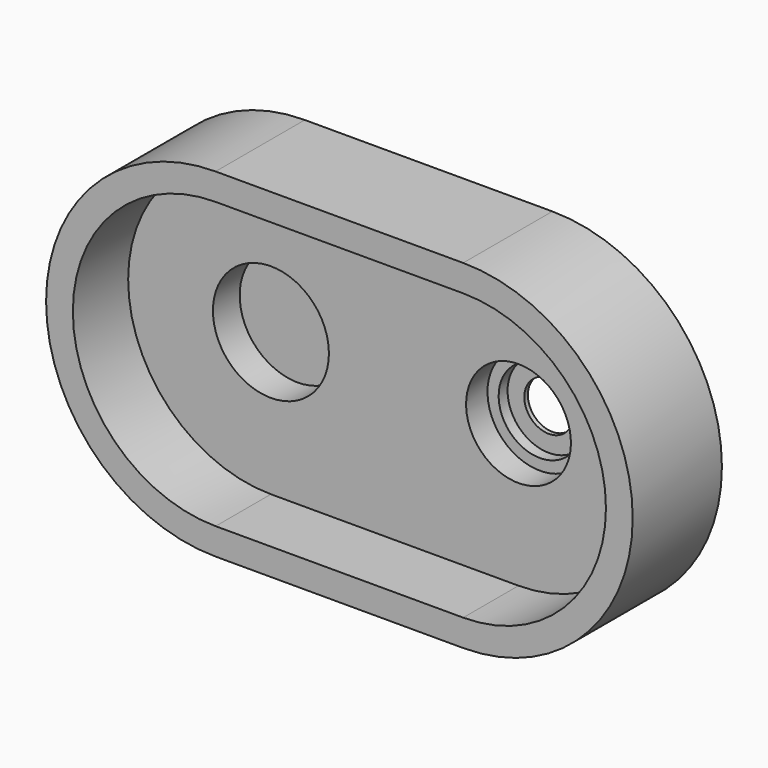
from build123d import *

# Parameters (mm, degrees)
F2_DEPTH = 50
F3_R     = 26
F4_DEPTH = 100
F5_DEPTH = 46


with BuildPart() as f2:
    # F0 (on Front) → F2 (new body)
    with BuildSketch(Plane.XZ):
        with BuildLine():
            Line((111, 76), (0, 76))
            ThreePointArc((0, 76), (-76, 0), (0, -76))
            Line((0, -76), (111, -76))
            ThreePointArc((111, -76), (187, 0), (111, 76))
        make_face()
    extrude(amount=F2_DEPTH)

    # F3 (on offset) → F4 (cut)
    with BuildSketch(Plane.XZ.offset(19)):
        with BuildLine():
            Line((111, 64), (0, 64))
            ThreePointArc((0, 64), (-64, 0), (0, -64))
            Line((0, -64), (111, -64))
            ThreePointArc((111, -64), (175, 0), (111, 64))
        make_face()
        Circle(F3_R, mode=Mode.SUBTRACT)
    extrude(amount=F4_DEPTH, mode=Mode.SUBTRACT)

    # F5 (cut): a face of the model
    f5_faces = [f2.faces().sort_by_distance(p)[0] for p in [
        (0, -50, 0),
    ]]
    extrude(f5_faces, amount=-F5_DEPTH, mode=Mode.SUBTRACT)

    # F7 (on offset) → F8 (revolve, cut)
    with BuildSketch(Plane.YZ.offset(111)):
        Polygon((-2, 0), (0, 0), (0, 11), (-2, 11), (-2, 18.5), (-7, 18.5), (-7, 23.5), (-19, 23.5), (-19, 18.5), (-19, 11), (-19, 0), (-7, 0), align=None)
    revolve(axis=Axis((111, -47.1797690988, 0), (0, -1, 0)), mode=Mode.SUBTRACT)


solid = f2.part
